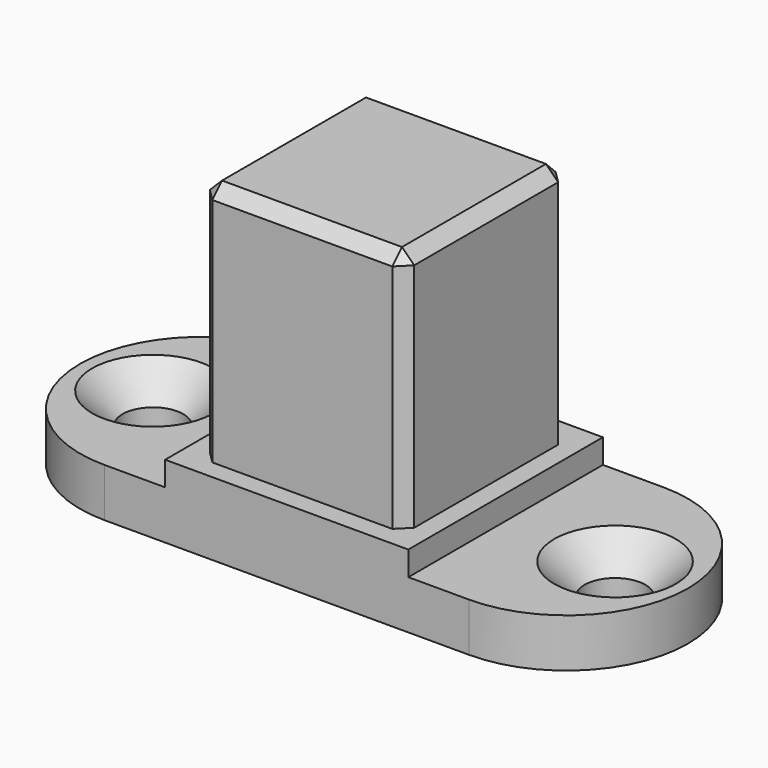
from build123d import *

# Parameters (mm, degrees)
F0_W           = 20
F0_H           = 20
F1_DEPTH       = 2
F0_W_2         = 5
F2_DEPTH       = 4
F3_W           = 16.8
F3_H           = 16.8
F4_DEPTH       = 20
F5_SIZE        = 1
F6_D           = 5
F6_CSINK_D     = 10
F6_CSINK_ANGLE = 90


with BuildPart() as f1:
    # F0 (on Top) → F1 (new body)
    with BuildSketch(Plane.XY):
        with Locations((15, 10)):
            Rectangle(F0_W, F0_H)
    extrude(amount=F1_DEPTH)

    # F0 (on Top) → F2 (join)
    with BuildSketch(Plane.XY):
        with Locations((2.5, 10)):
            Rectangle(F0_W_2, F0_H)
        with BuildLine():
            ThreePointArc((0, 20), (-10, 10), (0, 0))
            Line((0, 0), (0, 20))
        make_face()
        with Locations((15, 10)):
            Rectangle(F0_W, F0_H)
        with Locations((27.5, 10)):
            Rectangle(F0_W_2, F0_H)
        with BuildLine():
            Line((30, 20), (30, 0))
            ThreePointArc((30, 0), (40, 10), (30, 20))
        make_face()
    extrude(amount=-F2_DEPTH)

    # F3 (on face) → F4 (join)
    with BuildSketch(Plane.XY.offset(2)):
        with Locations((15, 10)):
            Rectangle(F3_W, F3_H)
    extrude(amount=F4_DEPTH)

    # F5
    f5_edges = [f1.edges().sort_by_distance(p)[0] for p in [
        (23.4, 18.4, 12),
        (6.6, 18.4, 12),
        (15, 18.4, 22),
        (6.6, 10, 22),
        (23.4, 10, 22),
        (15, 1.6, 22),
        (23.4, 1.6, 12),
        (6.6, 1.6, 12),
    ]]
    chamfer(f5_edges, length=F5_SIZE)

    # F6 (through all)
    with Locations(Plane.XY):
        with Locations((-4, 10), (34, 10)):
            CounterSinkHole(F6_D / 2, F6_CSINK_D / 2, counter_sink_angle=F6_CSINK_ANGLE)


solid = f1.part
